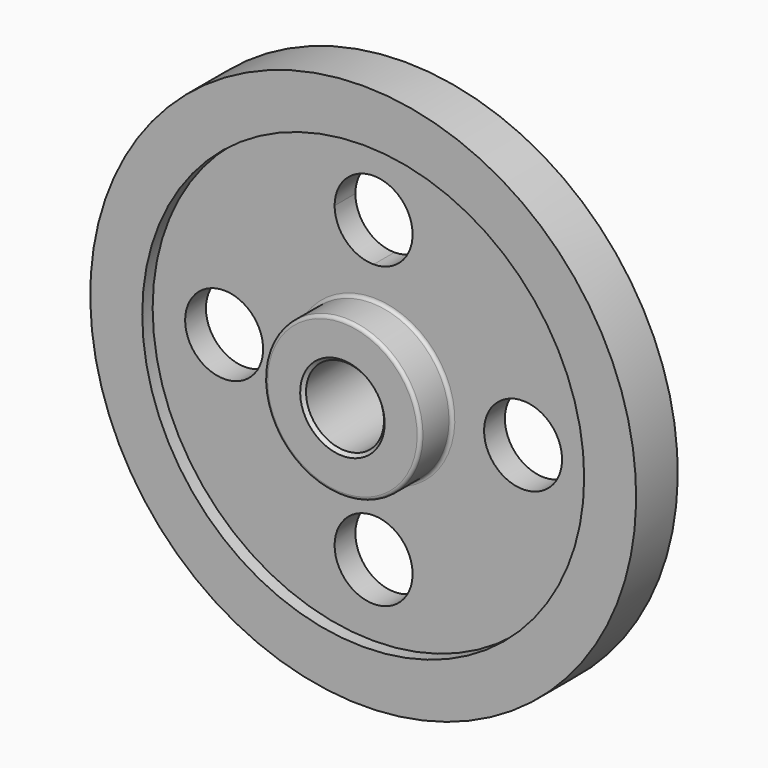
from build123d import *

# Parameters (mm, degrees)
F2_R     = 19.05
F3_DEPTH = 25.4
F4_R     = 1.5875
F5_R     = 1.5875
F6_SIZE  = 1.5875


with BuildPart() as f1:
    # F0 (on Right) → F1 (revolve)
    with BuildSketch(Plane.YZ):
        Polygon((-25.4, 19.05), (0, 19.05), (25.4, 19.05), (25.4, 38.1), (6.35, 38.1), (6.35, 107.95), (12.7, 107.95), (12.7, 133.35), (0, 133.35), (-12.7, 133.35), (-12.7, 107.95), (-6.35, 107.95), (-6.35, 38.1), (-25.4, 38.1), align=None)
    revolve(axis=Axis((0, 48.5013, 0), (0, 1, 0)))

    # F2 (on face) → F3 (cut)
    with BuildSketch(Plane(origin=(0, 6.35, 0), x_dir=(-1, 0, 0), z_dir=(0, 1, 0))):
        with Locations((73.025, 0)):
            Circle(F2_R)
        with Locations((0, -73.025)):
            Circle(F2_R)
        with Locations((-73.025, 0)):
            Circle(F2_R)
        with BuildLine():
            ThreePointArc((19.05, 73.025), (-13.470384, 86.495384), (0, 53.975))
            ThreePointArc((0, 53.975), (13.470384, 59.554616), (19.05, 73.025))
        make_face()
    extrude(amount=-F3_DEPTH, mode=Mode.SUBTRACT)

    # F4
    f4_edges = [f1.edges().sort_by_distance(p)[0] for p in [
        (0, 6.35, -38.1),
        (0, 25.4, -38.1),
    ]]
    fillet(f4_edges, radius=F4_R)

    # F5
    f5_edges = [f1.edges().sort_by_distance(p)[0] for p in [
        (0, -6.35, -38.1),
        (0, -25.4, -38.1),
    ]]
    fillet(f5_edges, radius=F5_R)

    # F6
    f6_edges = [f1.edges().sort_by_distance(p)[0] for p in [
        (0, -25.4, -19.05),
        (0, 25.4, -19.05),
    ]]
    chamfer(f6_edges, length=F6_SIZE)


solid = f1.part
